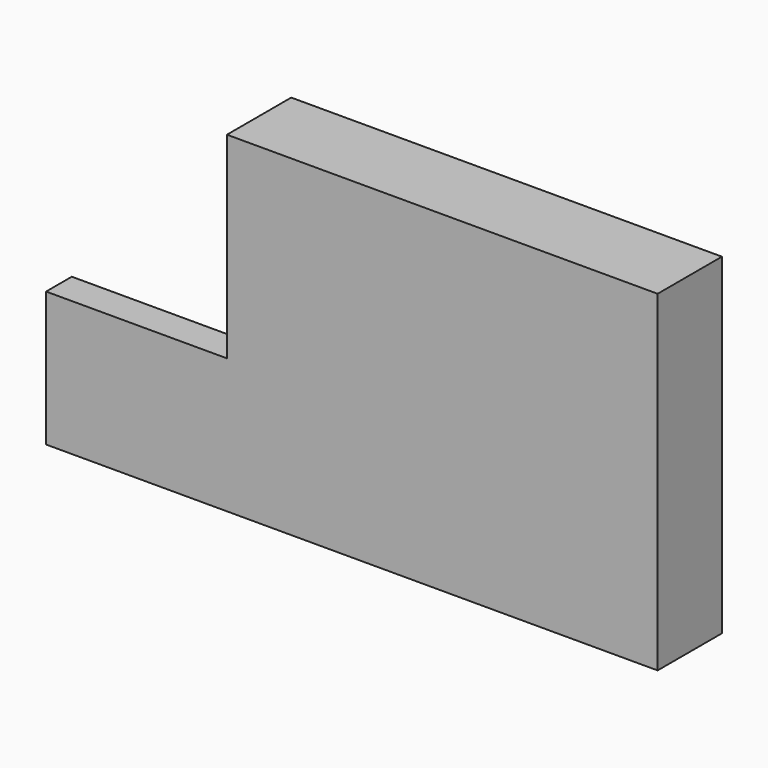
from build123d import *

# Parameters (mm, degrees)
F0_W     = 133.965507
F0_H     = 103.144266
F1_DEPTH = 25
F2_W     = 56.256611
F2_H     = 41.894164
F3_DEPTH = 10


with BuildPart() as f1:
    # F0 (on Front) → F1 (new body)
    with BuildSketch(Plane.XZ):
        with Locations((66.982754, 51.572133)):
            Rectangle(F0_W, F0_H)
    extrude(amount=-F1_DEPTH)

    # F2 (on Front) → F3 (join)
    with BuildSketch(Plane.XZ):
        with Locations((-28.128305, 20.947082)):
            Rectangle(F2_W, F2_H)
    extrude(amount=-F3_DEPTH)


solid = f1.part
